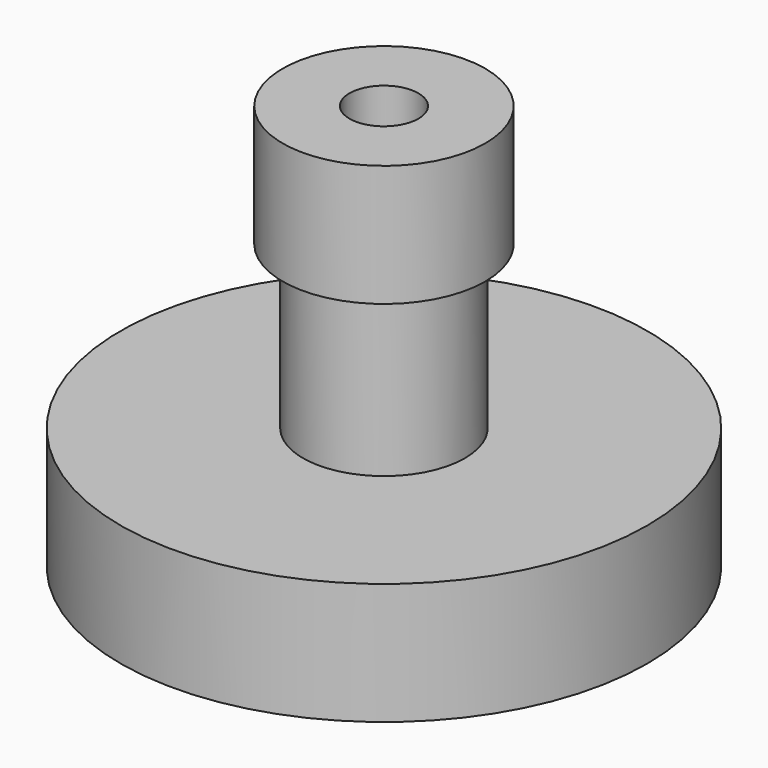
from build123d import *

# Parameters (mm, degrees)
F0_R     = 6.5
F1_DEPTH = 3
F2_R     = 2
F3_DEPTH = 4
F4_R     = 2.5
F5_DEPTH = 3
F6_R     = 6
F7_DEPTH = 2
F8_R     = 0.85
F9_DEPTH = 10.001


with BuildPart() as f1:
    # F0 (on Top) → F1 (new body)
    with BuildSketch(Plane.XY):
        Circle(F0_R)
    extrude(amount=F1_DEPTH)

    # F2 (on face) → F3 (join)
    with BuildSketch(Plane.XY.offset(3)):
        Circle(F2_R)
    extrude(amount=F3_DEPTH)

    # F4 (on face) → F5 (join)
    with BuildSketch(Plane.XY.offset(7)):
        Circle(F4_R)
    extrude(amount=F5_DEPTH)

    # F6 (on face) → F7 (cut)
    with BuildSketch(Plane(origin=(0, 0, 0), x_dir=(1, 0, 0), z_dir=(0, 0, -1))):
        Circle(F6_R)
    extrude(amount=-F7_DEPTH, mode=Mode.SUBTRACT)

    # F8 (on face) → F9 (cut, through all)
    with BuildSketch(Plane.XY.offset(10)):
        Circle(F8_R)
    extrude(amount=-F9_DEPTH, mode=Mode.SUBTRACT)


solid = f1.part
